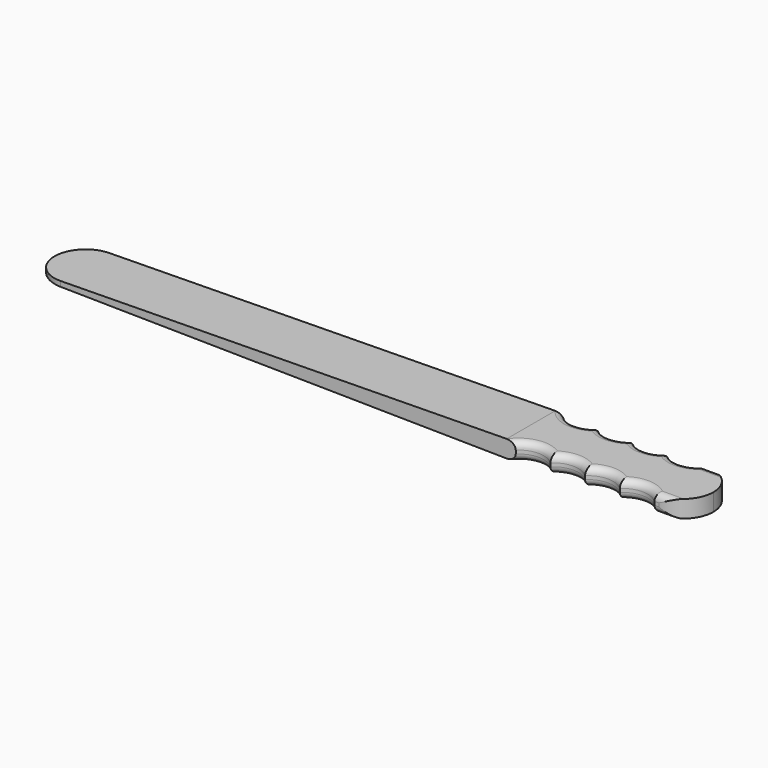
from build123d import *

# Parameters (mm, degrees)
F1_DEPTH = 44.45
F3_DEPTH = 12.701
F4_R     = 5.08
F6_DEPTH = 44.4510001
F8_DEPTH = 12.7


with BuildPart() as f1:
    # F0 (on Front) → F1 (new body)
    with BuildSketch(Plane.XZ):
        Polygon((482.6, 0), (482.6, 6.35), (0, 6.35), (0, 0), (0, -6.35), (482.6, -6.35), align=None)
    extrude(amount=F1_DEPTH)

    # F2 (on face) → F3 (cut, through all)
    with BuildSketch(Plane.XY.offset(6.35)):
        with BuildLine():
            Line((381, 0), (355.6, 0))
            ThreePointArc((355.6, 0), (368.3, -5.08), (381, 0))
        make_face()
        with BuildLine():
            Line((457.2, 0), (431.8, 0))
            ThreePointArc((431.8, 0), (444.5, -5.08), (457.2, 0))
        make_face()
        with BuildLine():
            Line((431.8, 0), (406.4, 0))
            ThreePointArc((406.4, 0), (419.1, -5.08), (431.8, 0))
        make_face()
        with BuildLine():
            Line((406.4, 0), (381, 0))
            ThreePointArc((381, 0), (393.7, -5.08), (406.4, 0))
        make_face()
        with BuildLine():
            ThreePointArc((457.2, -44.45), (444.5, -39.37), (431.8, -44.45))
            Line((431.8, -44.45), (457.2, -44.45))
        make_face()
        with BuildLine():
            ThreePointArc((431.8, -44.45), (419.1, -39.37), (406.4, -44.45))
            Line((406.4, -44.45), (431.8, -44.45))
        make_face()
        with BuildLine():
            ThreePointArc((406.4, -44.45), (393.7, -39.37), (381, -44.45))
            Line((381, -44.45), (406.4, -44.45))
        make_face()
        with BuildLine():
            ThreePointArc((381, -44.45), (368.3, -39.37), (355.6, -44.45))
            Line((355.6, -44.45), (381, -44.45))
        make_face()
    extrude(amount=-F3_DEPTH, mode=Mode.SUBTRACT)

    # F4
    f4_edges = [f1.edges().sort_by_distance(p)[0] for p in [
        (368.3, -39.37, 6.35),
        (393.7, -39.37, 6.35),
        (419.1, -39.37, 6.35),
        (444.5, -39.37, 6.35),
        (444.5, -5.08, 6.35),
        (419.1, -5.08, 6.35),
        (393.7, -5.08, 6.35),
        (368.3, -5.08, 6.35),
        (419.1, -39.37, -6.35),
        (393.7, -39.37, -6.35),
        (368.3, -39.37, -6.35),
        (444.5, -39.37, -6.35),
        (469.9, -44.45, 6.35),
        (469.9, -44.45, -6.35),
        (469.9, 0, 6.35),
        (469.9, 0, -6.35),
        (444.5, -5.08, -6.35),
        (419.1, -5.08, -6.35),
        (393.7, -5.08, -6.35),
        (368.3, -5.08, -6.35),
    ]]
    fillet(f4_edges, radius=F4_R)

    # F5 (on face) → F6 (cut, through all)
    with BuildSketch(Plane.XZ.offset(44.45)):
        Polygon((0, 6.35), (0, 1.5875), (348.9559363111, 6.35), align=None)
        Polygon((348.9559363111, -6.35), (0, -1.5875), (0, -6.35), align=None)
    extrude(amount=-F6_DEPTH, mode=Mode.SUBTRACT)

    # F7 (on Top) → F8 (cut, symmetric)
    with BuildSketch(Plane.XY):
        with BuildLine():
            ThreePointArc((22.225, -44.45), (6.5095517881, -37.9404482119), (0, -22.225))
            Line((0, -22.225), (0, -44.45))
            Line((0, -44.45), (22.225, -44.45))
        make_face()
        with BuildLine():
            ThreePointArc((0, -22.225), (6.5095517881, -6.5095517881), (22.225, 0))
            Line((22.225, 0), (0, 0))
            Line((0, 0), (0, -22.225))
        make_face()
        with BuildLine():
            ThreePointArc((460.375, 0), (476.0904482119, -6.5095517881), (482.6, -22.225))
            Line((482.6, -22.225), (482.6, 0))
            Line((482.6, 0), (460.375, 0))
        make_face()
        with BuildLine():
            ThreePointArc((482.6, -22.225), (476.0904482119, -37.9404482119), (460.375, -44.45))
            Line((460.375, -44.45), (482.6, -44.45))
            Line((482.6, -44.45), (482.6, -22.225))
        make_face()
    extrude(amount=F8_DEPTH, both=True, mode=Mode.SUBTRACT)


solid = f1.part
